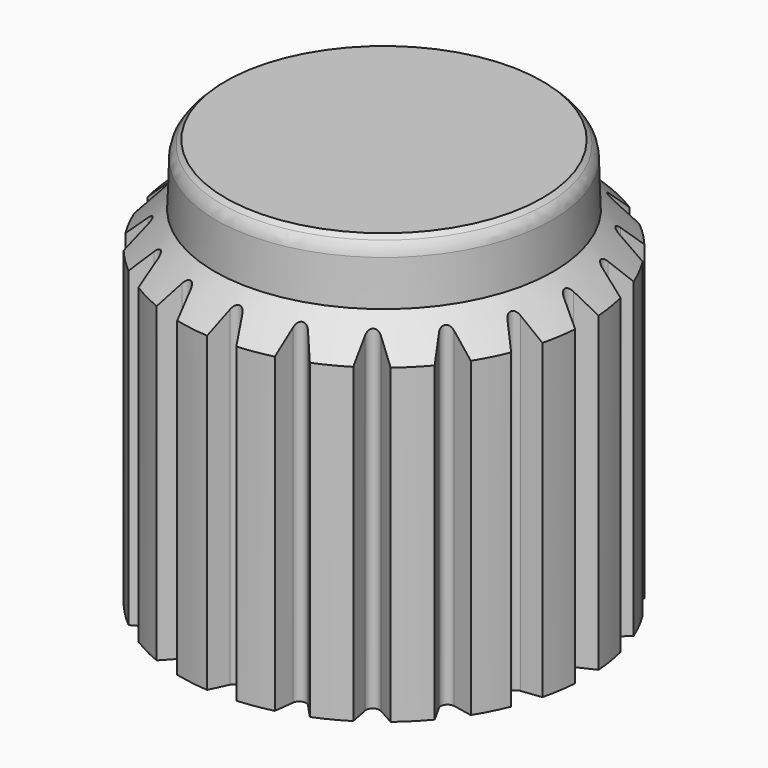
from build123d import *

# Parameters (mm, degrees)
SKETCH002_R        = 6
POCKET_DEPTH       = 16
PAD_DEPTH          = 13
POCKET001_DEPTH    = 0.2
POCKET002_DEPTH    = 3
FILLET_R           = 0.4
POCKET003_DEPTH    = 80.354829
POLARPATTERN_COUNT = 20
CHAMFER_SIZE       = 0.4
FILLET001_R        = 0.8
CHAMFER001_SIZE    = 1


with BuildPart() as part:
    # Sketch → Revolution (revolve)
    with BuildSketch(Plane.XZ):
        Polygon((0, 0), (0, 18), (7.405714, 18), (7.5, 15.3), (9, 13.8), (9, 0), align=None)
    revolve(axis=Axis((0, 0, 0), (0, 0, 1)))

    # Sketch002 → Pocket (cut)
    with BuildSketch(Plane.XY):
        Circle(SKETCH002_R)
    extrude(amount=POCKET_DEPTH, mode=Mode.SUBTRACT)

    # Sketch001 → Pad (join)
    with BuildSketch(Plane.XY.offset(16)):
        with BuildLine():
            ThreePointArc((1.4, 2.82179), (-1.660196, 2.676985), (-3.15, 0))
            Line((-3.15, 0), (-6, 0))
            ThreePointArc((2.904595, 5.250079), (-3.047329, 5.168538), (-6, 0))
            ThreePointArc((2.904595, 5.250079), (1.517742, 4.834321), (1.964444, 3.457124))
            ThreePointArc((2.577422, 1.196081), (2.779528, 2.464484), (1.964444, 3.457124))
            ThreePointArc((2.577422, 1.196081), (2.311266, 0.624171), (2.22, 0))
            Line((1.4, 0), (2.22, 0))
            ThreePointArc((1.891865, 1.645983), (1.525595, 0.858951), (1.4, 0))
            ThreePointArc((1.891865, 1.645983), (1.988096, 2.249924), (1.6, 2.722562))
            Line((1.4, 2.82179), (1.6, 2.722562))
        make_face()
    pad = extrude(amount=-PAD_DEPTH)

    # Mirrored: Pad across Sketch001 H_Axis
    add(pad.mirror(Plane(origin=(0, 0, 16), x_dir=(0, 0, 1), z_dir=(0, 1, 0))))

    # Sketch003 → Pocket001 (cut)
    with BuildSketch(Plane.XY.offset(16)):
        Polygon((3.15, 3.457124), (3.15, 0), (3.15, -3.457124), (1.964444, -3.457124), (1.4, -2.82179), (1.4, 2.82179), (1.964444, 3.457124), align=None)
    extrude(amount=-POCKET001_DEPTH, mode=Mode.SUBTRACT)

    # Sketch004 → Pocket002 (cut)
    with BuildSketch(Plane.XY.offset(3)):
        Polygon((2.834063, 0), (2.834063, 3.457124), (1.964444, 3.457124), (1.4, 2.82179), (1.4, 0), (1.4, -2.82179), (1.964444, -3.457124), (2.834063, -3.457124), align=None)
    extrude(amount=POCKET002_DEPTH, mode=Mode.SUBTRACT)

    # Fillet
    fillet_edges = [part.edges().sort_by_distance(p)[0] for p in [
        (1.964444, 3.457124, 4.5),
        (1.4, 2.82179, 4.5),
        (1.4, -2.82179, 4.5),
        (1.964444, -3.457124, 4.5),
    ]]
    fillet(fillet_edges, radius=FILLET_R)

    # Sketch005 → Pocket003 (cut, through all)
    with BuildSketch(Plane.XY):
        with BuildLine():
            Line((0.271892, 8.173215), (0.646584, 8.976744))
            ThreePointArc((0.646584, 8.976744), (0, 9), (-0.646584, 8.976744))
            Line((-0.271892, 8.173215), (-0.646584, 8.976744))
            ThreePointArc((-0.271892, 8.173215), (0, 8), (0.271892, 8.173215))
        make_face()
    pocket003 = extrude(amount=POCKET003_DEPTH, mode=Mode.SUBTRACT)

    # PolarPattern: Pocket003 ×20 about axis
    polarpattern_axis = Axis((0, 0, 0), (0, 0, 1))
    for i in range(1, POLARPATTERN_COUNT):
        add(pocket003.rotate(polarpattern_axis, i * 360 / POLARPATTERN_COUNT), mode=Mode.SUBTRACT)

    # Chamfer
    chamfer_edges = [part.edges().sort_by_distance(p)[0] for p in [
        (-7.405714, 0, 18),
    ]]
    chamfer(chamfer_edges, length=CHAMFER_SIZE)

    # Fillet001
    fillet001_edges = [part.edges().sort_by_distance(p)[0] for p in [
        (-7.419674, 0, 17.600244),
    ]]
    fillet(fillet001_edges, radius=FILLET001_R)

    # Chamfer001
    chamfer001_edges = [part.edges().sort_by_distance(p)[0] for p in [
        (-6, 0, 0),
    ]]
    chamfer(chamfer001_edges, length=CHAMFER001_SIZE)


solid = part.part
